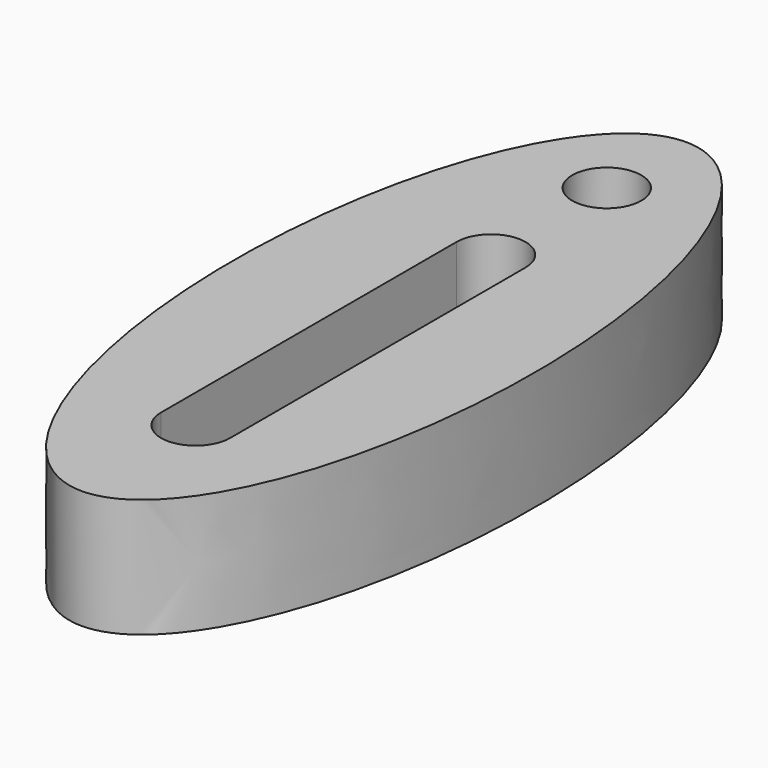
from build123d import *

# Parameters (mm, degrees)
F0_R     = 1.6
F1_DEPTH = 5.5
F3_R     = 2.7
F3_R_2   = 1.6
F4_DEPTH = 3


with BuildPart() as f1:
    # F0 (on Top) → F1 (new body)
    with BuildSketch(Plane.XY):
        with BuildLine():
            add(Edge.make_bspline(
                [(0, -17.016879), (12.124356, -17.016879), (6.062178, 9.233121), (0, 35.483121), (-6.062178, 9.233121), (-12.124356, -17.016879), (0, -17.016879)],
                knots=[0, 0, 0, 2.094395, 2.094395, 4.18879, 4.18879, 6.283185, 6.283185, 6.283185], degree=2, weights=[1, 0.5, 1, 0.5, 1, 0.5, 1]))
        make_face()
        with BuildLine():
            ThreePointArc((-1.6, 6.683121), (0, 8.283121), (1.6, 6.683121))
            Line((1.6, 6.683121), (1.6, -10.416879))
            ThreePointArc((1.6, -10.416879), (0, -12.016879), (-1.6, -10.416879))
            Line((-1.6, -10.416879), (-1.6, 6.683121))
        make_face(mode=Mode.SUBTRACT)
        with Locations((0, 13.383121)):
            Circle(F0_R, mode=Mode.SUBTRACT)
    extrude(amount=F1_DEPTH)

    # F3 (on face) → F4 (cut)
    with BuildSketch(Plane.XY):
        with Locations((0, 13.383121)):
            Circle(F3_R)
        with Locations((0, 13.383121)):
            Circle(F3_R_2, mode=Mode.SUBTRACT)
    extrude(amount=F4_DEPTH, mode=Mode.SUBTRACT)


solid = f1.part
